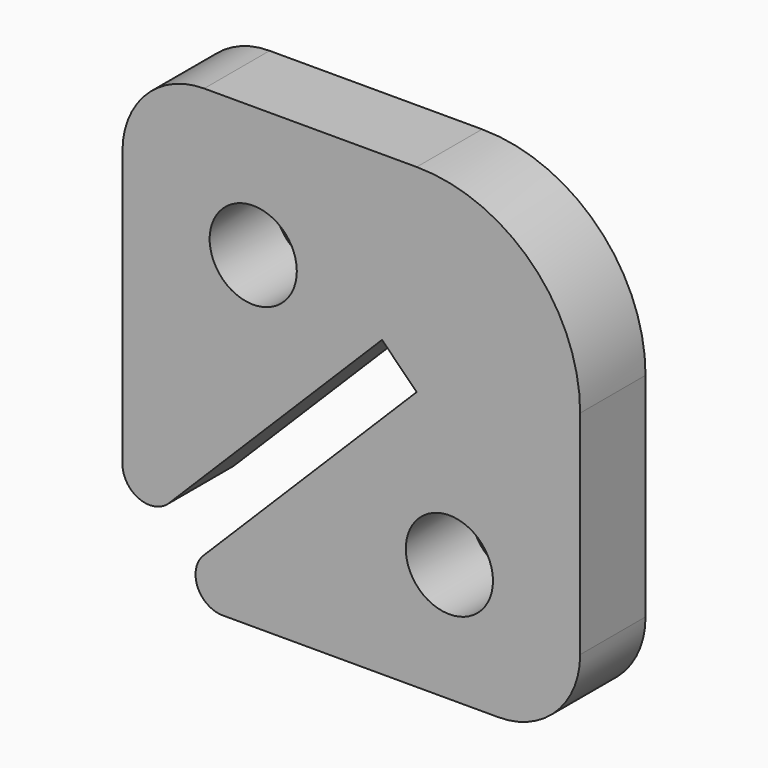
from build123d import *

# Parameters (mm, degrees)
F1_R     = 2.032
F2_DEPTH = 3.81


with BuildPart() as f2:
    # F1 (on Front) → F2 (new body)
    with BuildSketch(Plane.XZ):
        with BuildLine():
            ThreePointArc((-6.683024, -4.740797), (-5.899032, -5.914124), (-4.514999, -5.638822))
            Line((-4.514999, -5.638822), (5.417165, 4.293341))
            Line((5.417165, 4.293341), (7.033611, 2.676895))
            Line((7.033611, 2.676895), (-2.905368, -7.262083))
            ThreePointArc((-2.905368, -7.262083), (-3.180669, -8.646117), (-2.007342, -9.430109))
            Line((-2.007342, -9.430109), (10.843611, -9.430109))
            ThreePointArc((10.843611, -9.430109), (13.537687, -8.314186), (14.653611, -5.620109))
            Line((14.653611, -5.620109), (14.653611, 4.293341))
            ThreePointArc((14.653611, 4.293341), (12.421764, 9.681495), (7.033611, 11.913341))
            Line((7.033611, 11.913341), (-2.873024, 11.913341))
            ThreePointArc((-2.873024, 11.913341), (-5.567101, 10.797418), (-6.683024, 8.103341))
            Line((-6.683024, 8.103341), (-6.683024, -4.740797))
        make_face()
        with Locations((8.557611, -3.917257)):
            Circle(F1_R, mode=Mode.SUBTRACT)
        with Locations((-0.587024, 5.817341)):
            Circle(F1_R, mode=Mode.SUBTRACT)
        with BuildLine():
            ThreePointArc((-6.683024, -4.740797), (-5.899032, -5.914124), (-4.514999, -5.638822))
            Line((-4.514999, -5.638822), (5.417165, 4.293341))
            Line((5.417165, 4.293341), (7.033611, 2.676895))
            Line((7.033611, 2.676895), (-2.905368, -7.262083))
            ThreePointArc((-2.905368, -7.262083), (-3.180669, -8.646117), (-2.007342, -9.430109))
            Line((-2.007342, -9.430109), (10.843611, -9.430109))
            ThreePointArc((10.843611, -9.430109), (13.537687, -8.314186), (14.653611, -5.620109))
            Line((14.653611, -5.620109), (14.653611, 4.293341))
            ThreePointArc((14.653611, 4.293341), (12.421764, 9.681495), (7.033611, 11.913341))
            Line((7.033611, 11.913341), (-2.873024, 11.913341))
            ThreePointArc((-2.873024, 11.913341), (-5.567101, 10.797418), (-6.683024, 8.103341))
            Line((-6.683024, 8.103341), (-6.683024, -4.740797))
        make_face()
        with Locations((8.557611, -3.917257)):
            Circle(F1_R, mode=Mode.SUBTRACT)
        with Locations((-0.587024, 5.817341)):
            Circle(F1_R, mode=Mode.SUBTRACT)
    extrude(amount=F2_DEPTH)


solid = f2.part
